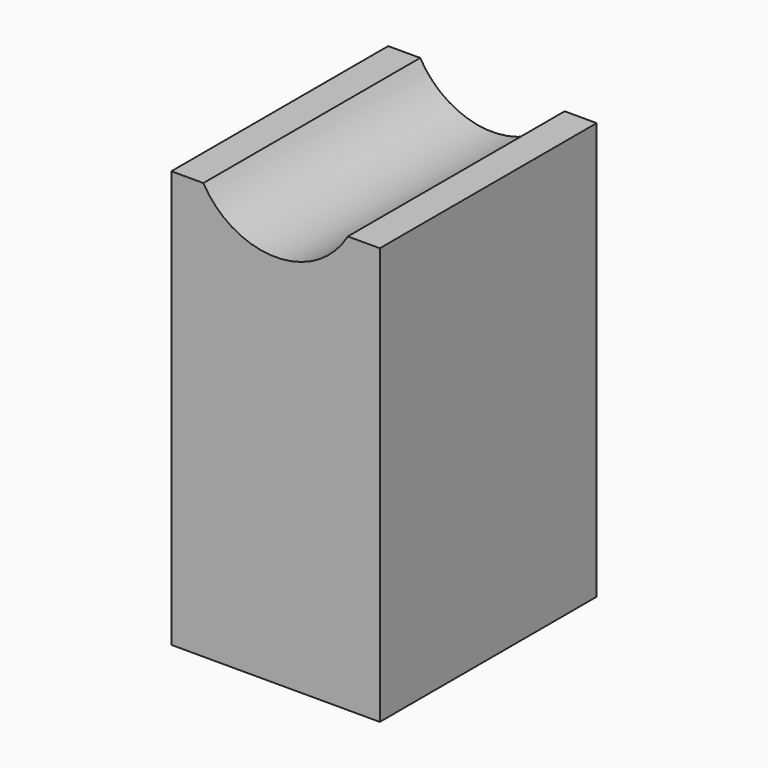
from build123d import *

# Parameters (mm, degrees)
F1_DEPTH = 6.5
F3_D     = 5
F3_DEPTH = 11
F3_TIP   = 1.5021515476


with BuildPart() as f1:
    # F0 (on Front) → F1 (new body, symmetric)
    with BuildSketch(Plane.XZ):
        with BuildLine():
            Line((0, 20), (0, 0))
            Line((0, 0), (10, 0))
            Line((10, 0), (10, 20))
            Line((10, 20), (8.4641016151, 20))
            ThreePointArc((8.4641016151, 20), (5, 18), (1.5358983849, 20))
            Line((1.5358983849, 20), (0, 20))
        make_face()
    extrude(amount=F1_DEPTH, both=True)

    # F3
    with Locations(Plane(origin=(0, 0, 0), x_dir=(1, 0, 0), z_dir=(0, 0, -1))):
        with Locations((5, 0)):
            Hole(F3_D / 2, depth=F3_DEPTH)
            with Locations((0, 0, -(F3_DEPTH + F3_TIP / 2))):  # 118° drill point
                Cone(0, F3_D / 2, F3_TIP, mode=Mode.SUBTRACT)


solid = f1.part
